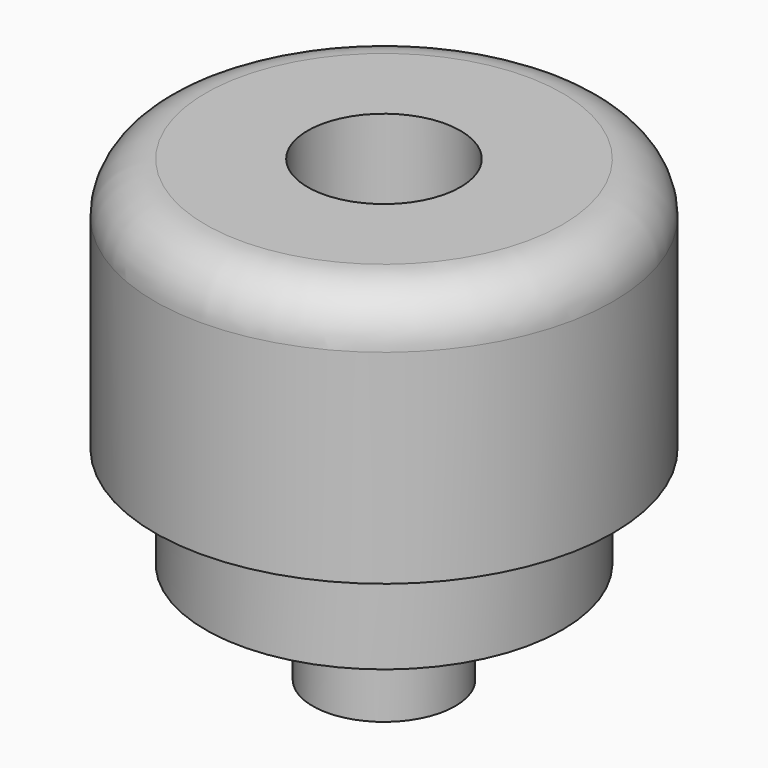
from build123d import *

# Parameters (mm, degrees)
F0_W   = 10
F0_H   = 15
F0_W_2 = 5
F0_H_2 = 10
F0_W_3 = 4
F0_W_4 = 0.5
F2_R   = 5


with BuildPart() as f1:
    # F0 (on Front) → F1 (revolve)
    with BuildSketch(Plane.XZ):
        with Locations((12.5, 37.5)):
            Rectangle(F0_W, F0_H)
        with Locations((20, 37.5)):
            Rectangle(F0_W_2, F0_H)
        with Locations((20, 25)):
            Rectangle(F0_W_2, F0_H_2)
    revolve(axis=Axis((0, 0, 22.5), (0, 0, 1)))

    # F2
    f2_edges = [f1.edges().sort_by_distance(p)[0] for p in [
        (-22.5, 0, 45),
    ]]
    fillet(f2_edges, radius=F2_R)


with BuildPart() as f1b:
    # F0 (on Front) → F1, piece 2 (revolve)
    with BuildSketch(Plane.XZ):
        with Locations((12.5, 15)):
            Rectangle(F0_W, F0_H_2)
        with Locations((5, 5)):
            Rectangle(F0_W_3, F0_H_2)
        with Locations((7.25, 15)):
            Rectangle(F0_W_4, F0_H_2)
        with Locations((7.25, 25)):
            Rectangle(F0_W_4, F0_H_2)
        with Locations((5, 25)):
            Rectangle(F0_W_3, F0_H_2)
        with Locations((5, 15)):
            Rectangle(F0_W_3, F0_H_2)
    revolve(axis=Axis((0, 0, 22.5), (0, 0, 1)))


solid = Compound([f1.part, f1b.part])
